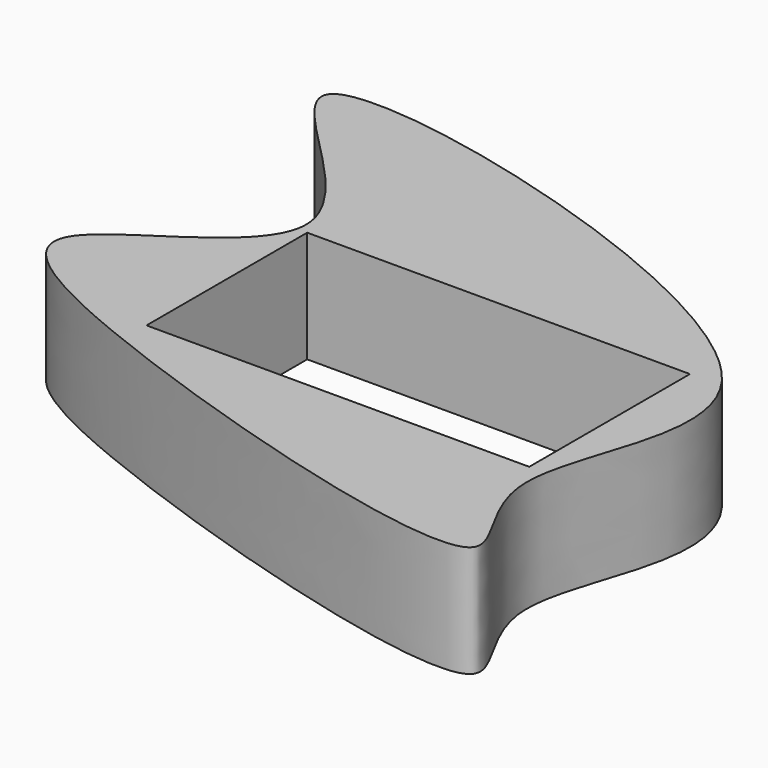
from build123d import *

# Parameters (mm, degrees)
F0_W     = 87.1410705149
F0_H     = 45.735896565
F1_DEPTH = 25.4


with BuildPart() as f1:
    # F0 (on Top) → F1 (new body)
    with BuildSketch(Plane.XY):
        with BuildLine():
            add(Edge.make_bspline(
                [(-57.3458001018, -17.9208032787), (-21.8220668083, -32.4309427125), (68.0445899067, -58.586485429), (23.1379238804, -16.7425873508), (80.4604683658, 47.4474787451), (-138.2938543528, 102.6756568733), (-27.9994182177, 32.1057526553), (-103.914524452, 6.2858862925), (-78.459570095, -9.2966042384), (-57.3458001018, -17.9208032787)],
                knots=[0, 0, 0, 0, 0.1909239307, 0.2838405387, 0.4211974133, 0.6339739051, 0.7653283081, 0.8865230767, 1, 1, 1, 1], degree=3))
        make_face()
        with Locations((-10.2737043053, 10.3623080067)):
            Rectangle(F0_W, F0_H, mode=Mode.SUBTRACT)
    extrude(amount=-F1_DEPTH)


solid = f1.part
